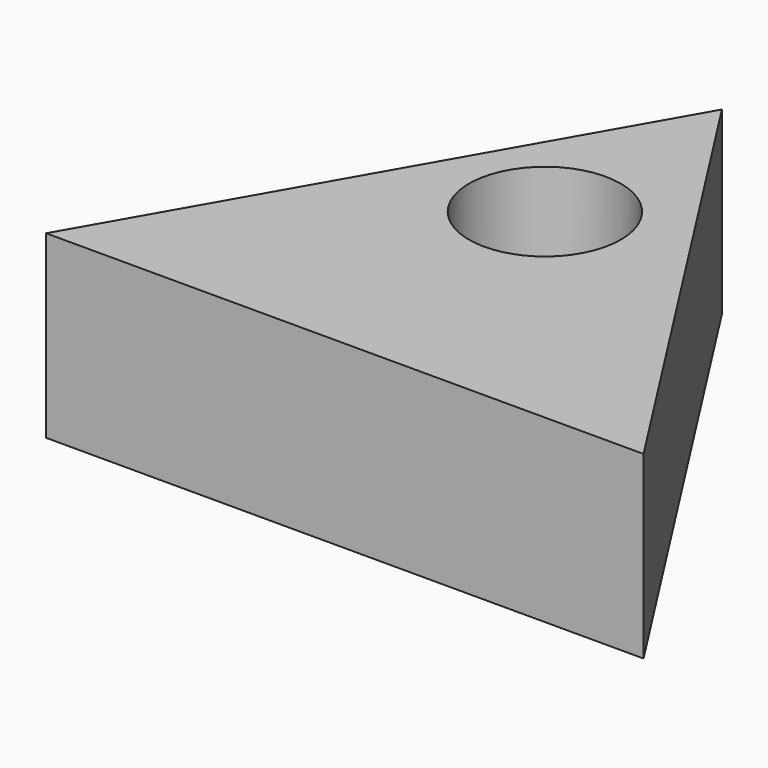
from build123d import *

# Parameters (mm, degrees)
F0_R     = 10.540375
F2_DEPTH = 25


with BuildPart() as f2:
    # F0 (on Top) → F2 (new body)
    with BuildSketch(Plane.XY):
        Polygon((0, 30.716097), (-39.053313, -37.736904), (43.880124, -37.736904), align=None)
        Circle(F0_R, mode=Mode.SUBTRACT)
    extrude(amount=F2_DEPTH)


solid = f2.part
